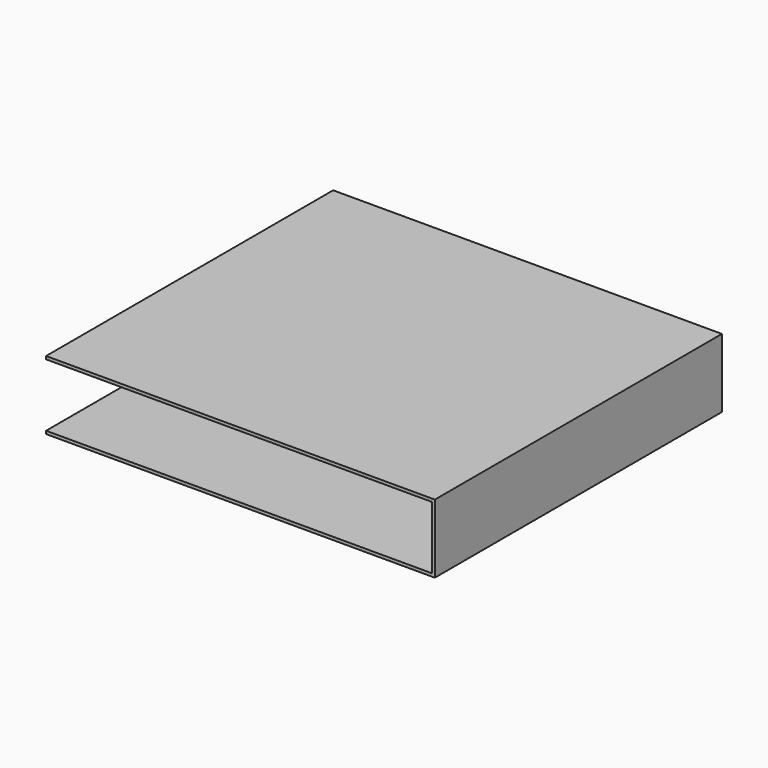
from build123d import *

# Parameters (mm, degrees)
BOX053_W               = 6
BOX053_H               = 6.45
BOX053_DEPTH           = 1.05
BOX052_W               = 6
BOX052_H               = 6.5
BOX052_DEPTH           = 1.15
CUT006_PLACEMENT_ANGLE = 270


with BuildPart() as small_cu_gnd_electrode010:
    # Box053 → Box053 (new body)
    with BuildSketch(Plane.XY.offset(0.05)):
        with Locations((3, 3.225)):
            Rectangle(BOX053_W, BOX053_H)
    extrude(amount=BOX053_DEPTH)


with BuildPart() as small_cu_electrode_short_axis_gnd:
    # Box052 → Box052 (new body)
    with BuildSketch(Plane.XY):
        with Locations((3, 3.25)):
            Rectangle(BOX052_W, BOX052_H)
    extrude(amount=BOX052_DEPTH)

    # Cut006: cut Small Cu GND Electrode010
    add(small_cu_gnd_electrode010.part, mode=Mode.SUBTRACT)


with BuildPart() as small_cu_electrode_short_axis_gnd_1:
    # Cut006 placement: moved
    add(small_cu_electrode_short_axis_gnd.part.moved(Location((-2.38, 3.62, 1.59))).rotate(Axis((-2.38, 3.62, 1.59), (0, 0, 1)), CUT006_PLACEMENT_ANGLE))


solid = small_cu_electrode_short_axis_gnd_1.part
